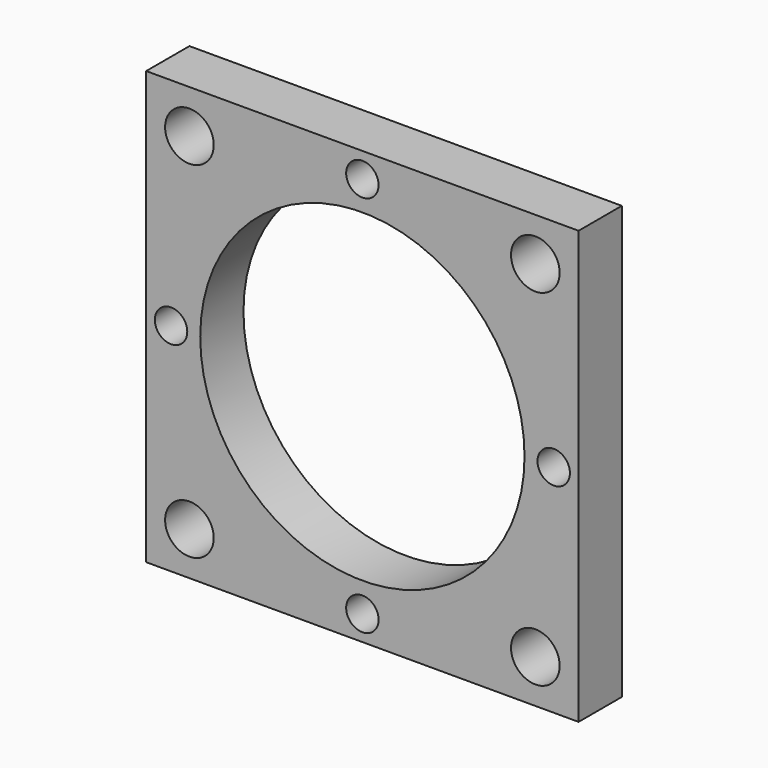
from build123d import *

# Parameters (mm, degrees)
F0_W     = 40
F0_H     = 40
F0_R     = 2.25
F0_R_2   = 1.5
F0_R_3   = 15
F1_DEPTH = 5


with BuildPart() as f1:
    # F0 (on Front) → F1 (new body)
    with BuildSketch(Plane.XZ):
        Rectangle(F0_W, F0_H)
        with Locations((-16, -16)):
            Circle(F0_R, mode=Mode.SUBTRACT)
        with Locations((0, -17.7)):
            Circle(F0_R_2, mode=Mode.SUBTRACT)
        with Locations((16, -16)):
            Circle(F0_R, mode=Mode.SUBTRACT)
        with Locations((-17.7, 0)):
            Circle(F0_R_2, mode=Mode.SUBTRACT)
        with Locations((-16, 16)):
            Circle(F0_R, mode=Mode.SUBTRACT)
        Circle(F0_R_3, mode=Mode.SUBTRACT)
        with Locations((17.7, 0)):
            Circle(F0_R_2, mode=Mode.SUBTRACT)
        with Locations((0, 17.7)):
            Circle(F0_R_2, mode=Mode.SUBTRACT)
        with Locations((16, 16)):
            Circle(F0_R, mode=Mode.SUBTRACT)
    extrude(amount=F1_DEPTH)


solid = f1.part
